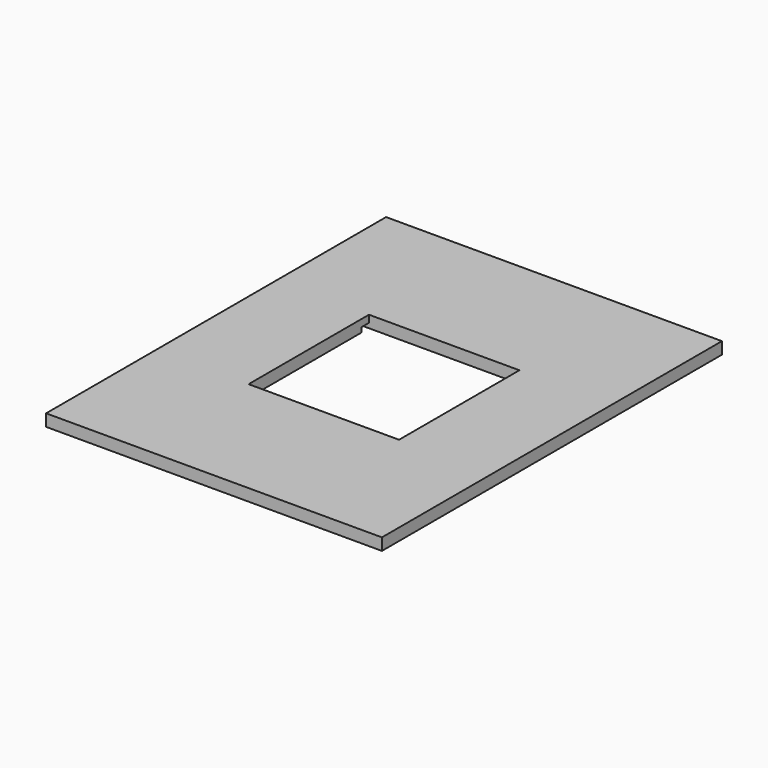
from build123d import *

# Parameters (mm, degrees)
F0_W     = 40.005
F0_H     = 40.005
F1_DEPTH = 3.175
F2_W     = 24.6475
F2_H     = 2.54
F3_DEPTH = 1.27


with BuildPart() as f1:
    # F0 (on Top) → F1 (new body)
    with BuildSketch(Plane.XY):
        Polygon((-44.65, -20.0025), (-44.65, -56.5), (44.65, -56.5), (44.65, 56.5), (-44.65, 56.5), (-44.65, 20.0025), (-44.65, 17.4625), (-44.65, -17.4625), align=None)
        Rectangle(F0_W, F0_H, mode=Mode.SUBTRACT)
    extrude(amount=F1_DEPTH)

    # F2 (on face) → F3 (cut)
    with BuildSketch(Plane(origin=(0, 0, 0), x_dir=(1, 0, 0), z_dir=(0, 0, -1))):
        with Locations((-32.32625, 18.7325)):
            Rectangle(F2_W, F2_H)
        with Locations((-32.32625, -18.7325)):
            Rectangle(F2_W, F2_H)
    extrude(amount=-F3_DEPTH, mode=Mode.SUBTRACT)


solid = f1.part
